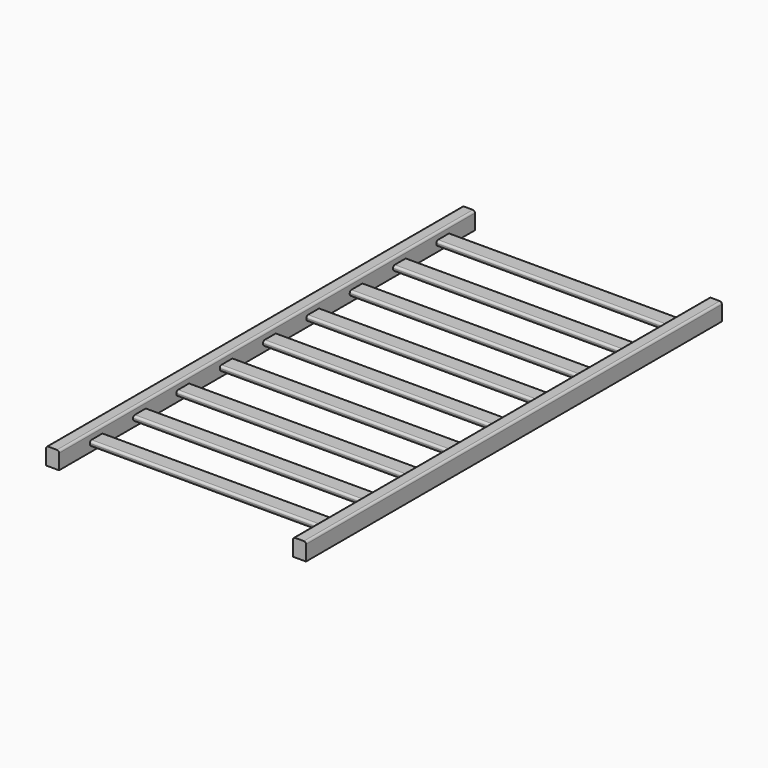
from build123d import *

# Parameters (mm, degrees)
F1_DEPTH = 1200
F3_DEPTH = 270


with BuildPart() as f1:
    # F0 (on Front) → F1 (new body)
    with BuildSketch(Plane.XZ):
        with BuildLine():
            Line((-314.166387, 0), (-334.166387, 0))
            ThreePointArc((-334.166387, 0), (-337.701921, -1.464466), (-339.166387, -5))
            Line((-339.166387, -5), (-339.166387, -40))
            Line((-339.166387, -40), (-309.166387, -40))
            Line((-309.166387, -40), (-309.166387, -5))
            ThreePointArc((-309.166387, -5), (-310.630854, -1.464466), (-314.166387, 0))
        make_face()
    extrude(amount=F1_DEPTH)

    # F2 (on face) → F3 (join)
    with BuildSketch(Plane.YZ.offset(-309.166387)):
        with BuildLine():
            Line((-1076.357331, -16), (-1106.357331, -16))
            ThreePointArc((-1106.357331, -16), (-1109.892865, -17.464466), (-1111.357331, -21))
            Line((-1111.357331, -21), (-1111.357331, -23))
            ThreePointArc((-1111.357331, -23), (-1109.892865, -26.535534), (-1106.357331, -28))
            Line((-1106.357331, -28), (-1076.357331, -28))
            ThreePointArc((-1076.357331, -28), (-1072.821797, -26.535534), (-1071.357331, -23))
            Line((-1071.357331, -23), (-1071.357331, -21))
            ThreePointArc((-1071.357331, -21), (-1072.821797, -17.464466), (-1076.357331, -16))
        make_face()
        with BuildLine():
            Line((-946.357331, -23), (-946.357331, -21))
            ThreePointArc((-946.357331, -21), (-947.821797, -17.464466), (-951.357331, -16))
            Line((-951.357331, -16), (-981.357331, -16))
            ThreePointArc((-981.357331, -16), (-984.892865, -17.464466), (-986.357331, -21))
            Line((-986.357331, -21), (-986.357331, -23))
            ThreePointArc((-986.357331, -23), (-984.892865, -26.535534), (-981.357331, -28))
            Line((-981.357331, -28), (-951.357331, -28))
            ThreePointArc((-951.357331, -28), (-947.821797, -26.535534), (-946.357331, -23))
        make_face()
        with BuildLine():
            Line((-821.357331, -23), (-821.357331, -21))
            ThreePointArc((-821.357331, -21), (-822.821797, -17.464466), (-826.357331, -16))
            Line((-826.357331, -16), (-856.357331, -16))
            ThreePointArc((-856.357331, -16), (-859.892865, -17.464466), (-861.357331, -21))
            Line((-861.357331, -21), (-861.357331, -23))
            ThreePointArc((-861.357331, -23), (-859.892865, -26.535534), (-856.357331, -28))
            Line((-856.357331, -28), (-826.357331, -28))
            ThreePointArc((-826.357331, -28), (-822.821797, -26.535534), (-821.357331, -23))
        make_face()
        with BuildLine():
            Line((-696.357331, -23), (-696.357331, -21))
            ThreePointArc((-696.357331, -21), (-697.821797, -17.464466), (-701.357331, -16))
            Line((-701.357331, -16), (-731.357331, -16))
            ThreePointArc((-731.357331, -16), (-734.892865, -17.464466), (-736.357331, -21))
            Line((-736.357331, -21), (-736.357331, -23))
            ThreePointArc((-736.357331, -23), (-734.892865, -26.535534), (-731.357331, -28))
            Line((-731.357331, -28), (-701.357331, -28))
            ThreePointArc((-701.357331, -28), (-697.821797, -26.535534), (-696.357331, -23))
        make_face()
        with BuildLine():
            Line((-571.357331, -23), (-571.357331, -21))
            ThreePointArc((-571.357331, -21), (-572.821797, -17.464466), (-576.357331, -16))
            Line((-576.357331, -16), (-606.357331, -16))
            ThreePointArc((-606.357331, -16), (-609.892865, -17.464466), (-611.357331, -21))
            Line((-611.357331, -21), (-611.357331, -23))
            ThreePointArc((-611.357331, -23), (-609.892865, -26.535534), (-606.357331, -28))
            Line((-606.357331, -28), (-576.357331, -28))
            ThreePointArc((-576.357331, -28), (-572.821797, -26.535534), (-571.357331, -23))
        make_face()
        with BuildLine():
            Line((-446.357331, -23), (-446.357331, -21))
            ThreePointArc((-446.357331, -21), (-447.821797, -17.464466), (-451.357331, -16))
            Line((-451.357331, -16), (-481.357331, -16))
            ThreePointArc((-481.357331, -16), (-484.892865, -17.464466), (-486.357331, -21))
            Line((-486.357331, -21), (-486.357331, -23))
            ThreePointArc((-486.357331, -23), (-484.892865, -26.535534), (-481.357331, -28))
            Line((-481.357331, -28), (-451.357331, -28))
            ThreePointArc((-451.357331, -28), (-447.821797, -26.535534), (-446.357331, -23))
        make_face()
        with BuildLine():
            Line((-321.357331, -23), (-321.357331, -21))
            ThreePointArc((-321.357331, -21), (-322.821797, -17.464466), (-326.357331, -16))
            Line((-326.357331, -16), (-356.357331, -16))
            ThreePointArc((-356.357331, -16), (-359.892865, -17.464466), (-361.357331, -21))
            Line((-361.357331, -21), (-361.357331, -23))
            ThreePointArc((-361.357331, -23), (-359.892865, -26.535534), (-356.357331, -28))
            Line((-356.357331, -28), (-326.357331, -28))
            ThreePointArc((-326.357331, -28), (-322.821797, -26.535534), (-321.357331, -23))
        make_face()
        with BuildLine():
            Line((-196.357331, -23), (-196.357331, -21))
            ThreePointArc((-196.357331, -21), (-197.821797, -17.464466), (-201.357331, -16))
            Line((-201.357331, -16), (-231.357331, -16))
            ThreePointArc((-231.357331, -16), (-234.892865, -17.464466), (-236.357331, -21))
            Line((-236.357331, -21), (-236.357331, -23))
            ThreePointArc((-236.357331, -23), (-234.892865, -26.535534), (-231.357331, -28))
            Line((-231.357331, -28), (-201.357331, -28))
            ThreePointArc((-201.357331, -28), (-197.821797, -26.535534), (-196.357331, -23))
        make_face()
        with BuildLine():
            Line((-71.357331, -23), (-71.357331, -21))
            ThreePointArc((-71.357331, -21), (-72.821797, -17.464466), (-76.357331, -16))
            Line((-76.357331, -16), (-106.357331, -16))
            ThreePointArc((-106.357331, -16), (-109.892865, -17.464466), (-111.357331, -21))
            Line((-111.357331, -21), (-111.357331, -23))
            ThreePointArc((-111.357331, -23), (-109.892865, -26.535534), (-106.357331, -28))
            Line((-106.357331, -28), (-76.357331, -28))
            ThreePointArc((-76.357331, -28), (-72.821797, -26.535534), (-71.357331, -23))
        make_face()
    extrude(amount=F3_DEPTH)

    # F4: F1 across face


with BuildPart() as f1_1:
    add(f1.part)
    add(f1.part.mirror(Plane(origin=(-39.166387, -841.357331, -22), x_dir=(0, 1, 0), z_dir=(1, 0, 0))))


solid = f1_1.part
